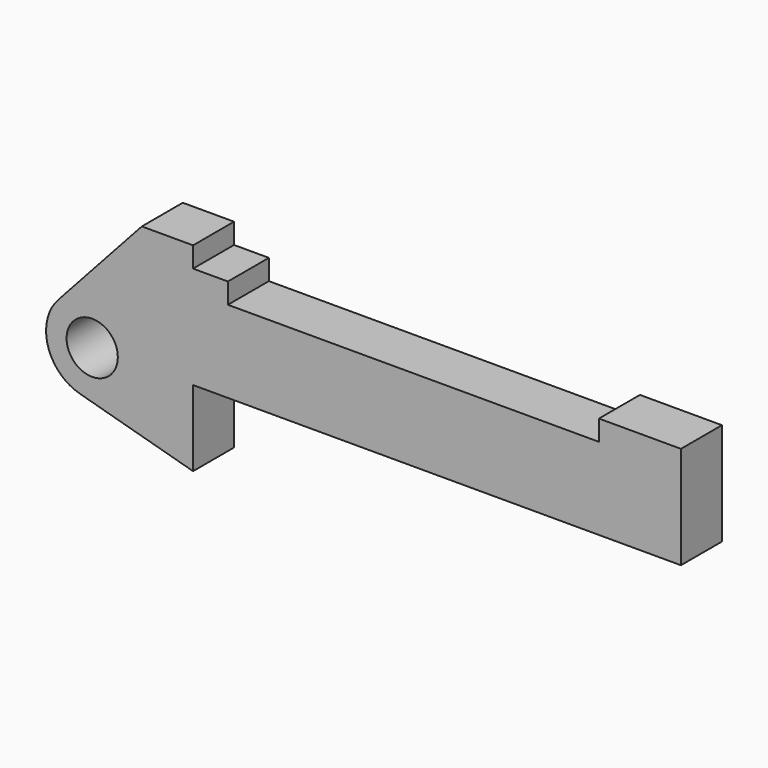
from build123d import *

# Parameters (mm, degrees)
F0_R     = 3.175
F0_W     = 5.842
F0_H     = 12.7
F1_DEPTH = 6.35
F2_DEPTH = 6.35


with BuildPart() as f1:
    # F0 (on Front) → F1 (new body)
    with BuildSketch(Plane.XZ):
        with BuildLine():
            Line((-0.9398, 0), (0, 0))
            Line((0, 0), (0, 12.7))
            Line((0, 12.7), (5.842, 12.7))
            Line((5.842, 12.7), (5.842, 15.24))
            Line((5.842, 15.24), (-0.508, 15.24))
            Line((-0.508, 15.24), (-10.88063, 3.847543))
            ThreePointArc((-10.88063, 3.847543), (-4.591961, 5.329721), (-0.9398, 0))
        make_face()
        with BuildLine():
            ThreePointArc((-8.182663, -5.506983), (-3.195791, -4.549339), (-0.9398, 0))
            ThreePointArc((-0.9398, 0), (-4.591961, 5.329721), (-10.88063, 3.847543))
            ThreePointArc((-10.88063, 3.847543), (-12.145978, -1.583727), (-8.182663, -5.506983))
        make_face()
        with Locations((-6.6548, 0)):
            Circle(F0_R, mode=Mode.SUBTRACT)
        with BuildLine():
            Line((5.842, 0), (0, 0))
            Line((0, 0), (-0.9398, 0))
            ThreePointArc((-0.9398, 0), (-3.195791, -4.549339), (-8.182663, -5.506983))
            Line((-8.182663, -5.506983), (5.842, -9.398))
            Line((5.842, -9.398), (5.842, 0))
        make_face()
        with Locations((2.921, 6.35)):
            Rectangle(F0_W, F0_H)
    extrude(amount=F1_DEPTH)

    # F0 (on Front) → F2 (join)
    with BuildSketch(Plane.XZ):
        Polygon((5.842, 12.7), (5.842, 0), (66.294, 0), (66.294, 12.7), (56.134, 12.7), (56.134, 10.16), (10.16, 10.16), (10.16, 12.7), align=None)
    extrude(amount=F2_DEPTH)


solid = f1.part
